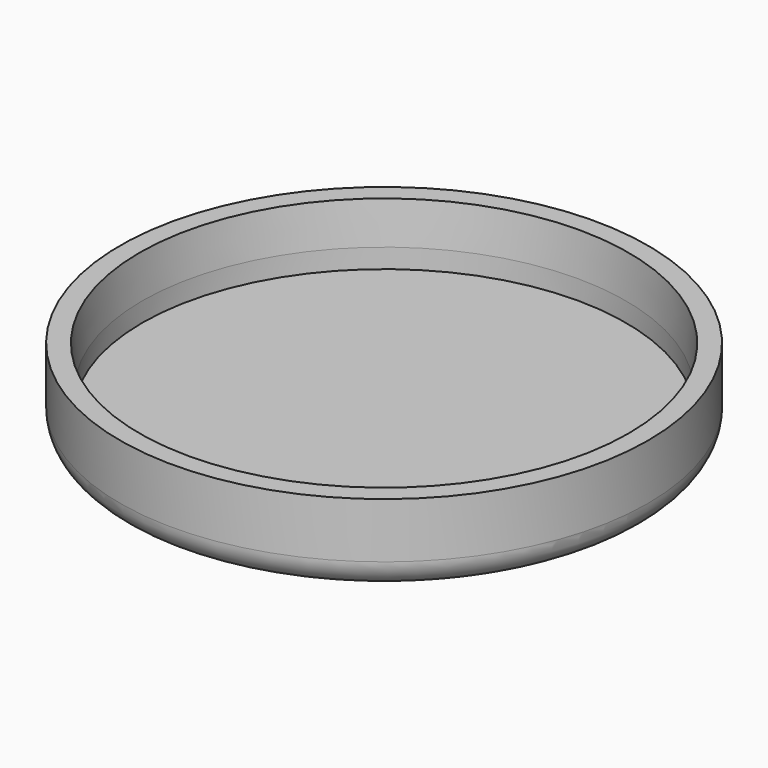
from build123d import *

# Parameters (mm, degrees)
F0_R     = 17.5
F1_DEPTH = 1.6
F0_R_2   = 19.1
F2_DEPTH = 6
F3_SIZE2 = 3
F3_SIZE  = 0.2
F4_R     = 2


with BuildPart() as f1:
    # F0 (on Top) → F1 (new body)
    with BuildSketch(Plane.XY):
        Circle(F0_R)
    extrude(amount=F1_DEPTH)

    # F0 (on Top) → F2 (join)
    with BuildSketch(Plane.XY):
        Circle(F0_R_2)
        Circle(F0_R, mode=Mode.SUBTRACT)
    extrude(amount=F2_DEPTH)

    # F3
    f3_edges = [f1.edges().sort_by_distance(p)[0] for p in [
        (-17.5, 0, 6),
    ]]
    chamfer(f3_edges, length=F3_SIZE, length2=F3_SIZE2)

    # F4
    f4_edges = [f1.edges().sort_by_distance(p)[0] for p in [
        (-19.1, 0, 0),
    ]]
    fillet(f4_edges, radius=F4_R)


solid = f1.part
